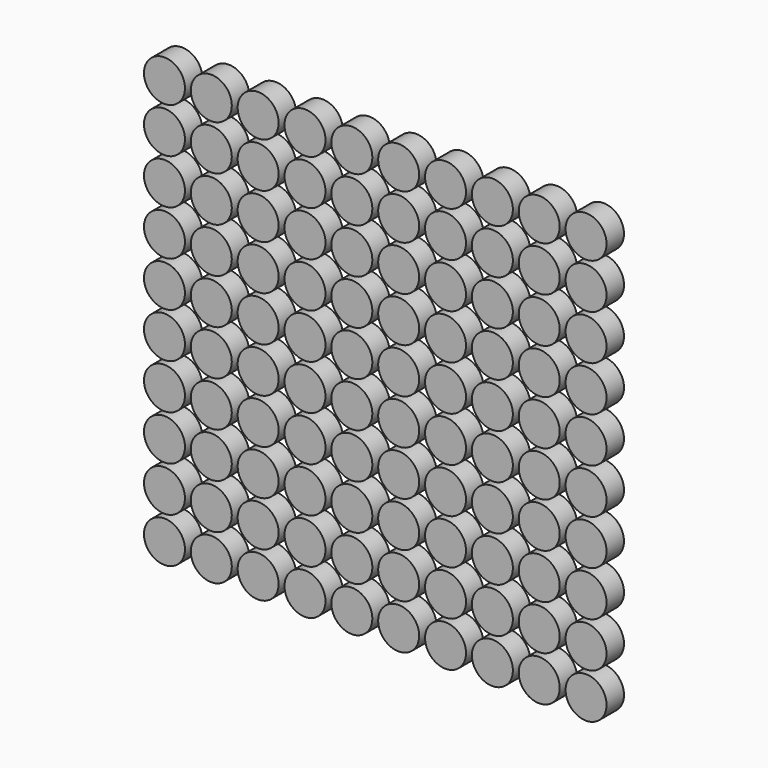
from build123d import *

# Parameters (mm, degrees)
F0_R     = 23.889337
F1_DEPTH = 25.4


with BuildPart() as f1:
    # F0 (on Front) → F1 (new body)
    with BuildSketch(Plane.XZ):
        with Locations((-116.749175, -34.957953)):
            Circle(F0_R)
        with Locations((-116.749175, 17.620047)):
            Circle(F0_R)
        with Locations((-116.749175, 70.198047)):
            Circle(F0_R)
        with Locations((-116.749175, 122.776047)):
            Circle(F0_R)
        with Locations((-116.749175, 175.354047)):
            Circle(F0_R)
        with Locations((-116.749175, 227.932047)):
            Circle(F0_R)
        with Locations((-116.749175, 280.510047)):
            Circle(F0_R)
        with Locations((-116.749175, 333.088047)):
            Circle(F0_R)
        with Locations((-116.749175, 385.666047)):
            Circle(F0_R)
        with Locations((-116.749175, 438.244047)):
            Circle(F0_R)
        with Locations((-62.139175, -34.957953)):
            Circle(F0_R)
        with Locations((-62.139175, 17.620047)):
            Circle(F0_R)
        with Locations((-62.139175, 70.198047)):
            Circle(F0_R)
        with Locations((-62.139175, 122.776047)):
            Circle(F0_R)
        with Locations((-62.139175, 175.354047)):
            Circle(F0_R)
        with Locations((-62.139175, 227.932047)):
            Circle(F0_R)
        with Locations((-62.139175, 280.510047)):
            Circle(F0_R)
        with Locations((-62.139175, 333.088047)):
            Circle(F0_R)
        with Locations((-62.139175, 385.666047)):
            Circle(F0_R)
        with Locations((-62.139175, 438.244047)):
            Circle(F0_R)
        with Locations((-7.529175, -34.957953)):
            Circle(F0_R)
        with Locations((-7.529175, 17.620047)):
            Circle(F0_R)
        with Locations((-7.529175, 70.198047)):
            Circle(F0_R)
        with Locations((-7.529175, 122.776047)):
            Circle(F0_R)
        with Locations((-7.529175, 175.354047)):
            Circle(F0_R)
        with Locations((-7.529175, 227.932047)):
            Circle(F0_R)
        with Locations((-7.529175, 280.510047)):
            Circle(F0_R)
        with Locations((-7.529175, 333.088047)):
            Circle(F0_R)
        with Locations((-7.529175, 385.666047)):
            Circle(F0_R)
        with Locations((-7.529175, 438.244047)):
            Circle(F0_R)
        with Locations((47.080825, -34.957953)):
            Circle(F0_R)
        with Locations((47.080825, 17.620047)):
            Circle(F0_R)
        with Locations((47.080825, 70.198047)):
            Circle(F0_R)
        with Locations((47.080825, 122.776047)):
            Circle(F0_R)
        with Locations((47.080825, 175.354047)):
            Circle(F0_R)
        with Locations((47.080825, 227.932047)):
            Circle(F0_R)
        with Locations((47.080825, 280.510047)):
            Circle(F0_R)
        with Locations((47.080825, 333.088047)):
            Circle(F0_R)
        with Locations((47.080825, 385.666047)):
            Circle(F0_R)
        with Locations((47.080825, 438.244047)):
            Circle(F0_R)
        with Locations((101.690825, -34.957953)):
            Circle(F0_R)
        with Locations((101.690825, 17.620047)):
            Circle(F0_R)
        with Locations((101.690825, 70.198047)):
            Circle(F0_R)
        with Locations((101.690825, 122.776047)):
            Circle(F0_R)
        with Locations((101.690825, 175.354047)):
            Circle(F0_R)
        with Locations((101.690825, 227.932047)):
            Circle(F0_R)
        with Locations((101.690825, 280.510047)):
            Circle(F0_R)
        with Locations((101.690825, 333.088047)):
            Circle(F0_R)
        with Locations((101.690825, 385.666047)):
            Circle(F0_R)
        with Locations((101.690825, 438.244047)):
            Circle(F0_R)
        with Locations((156.300825, -34.957953)):
            Circle(F0_R)
        with Locations((156.300825, 17.620047)):
            Circle(F0_R)
        with Locations((156.300825, 70.198047)):
            Circle(F0_R)
        with Locations((156.300825, 122.776047)):
            Circle(F0_R)
        with Locations((156.300825, 175.354047)):
            Circle(F0_R)
        with Locations((156.300825, 227.932047)):
            Circle(F0_R)
        with Locations((156.300825, 280.510047)):
            Circle(F0_R)
        with Locations((156.300825, 333.088047)):
            Circle(F0_R)
        with Locations((156.300825, 385.666047)):
            Circle(F0_R)
        with Locations((156.300825, 438.244047)):
            Circle(F0_R)
        with Locations((210.910825, -34.957953)):
            Circle(F0_R)
        with Locations((210.910825, 17.620047)):
            Circle(F0_R)
        with Locations((210.910825, 70.198047)):
            Circle(F0_R)
        with Locations((210.910825, 122.776047)):
            Circle(F0_R)
        with Locations((210.910825, 175.354047)):
            Circle(F0_R)
        with Locations((210.910825, 227.932047)):
            Circle(F0_R)
        with Locations((210.910825, 280.510047)):
            Circle(F0_R)
        with Locations((210.910825, 333.088047)):
            Circle(F0_R)
        with Locations((210.910825, 385.666047)):
            Circle(F0_R)
        with Locations((210.910825, 438.244047)):
            Circle(F0_R)
        with Locations((265.520825, -34.957953)):
            Circle(F0_R)
        with Locations((265.520825, 17.620047)):
            Circle(F0_R)
        with Locations((265.520825, 70.198047)):
            Circle(F0_R)
        with Locations((265.520825, 122.776047)):
            Circle(F0_R)
        with Locations((265.520825, 175.354047)):
            Circle(F0_R)
        with Locations((265.520825, 227.932047)):
            Circle(F0_R)
        with Locations((265.520825, 280.510047)):
            Circle(F0_R)
        with Locations((265.520825, 333.088047)):
            Circle(F0_R)
        with Locations((265.520825, 385.666047)):
            Circle(F0_R)
        with Locations((265.520825, 438.244047)):
            Circle(F0_R)
        with Locations((320.130825, -34.957953)):
            Circle(F0_R)
        with Locations((320.130825, 17.620047)):
            Circle(F0_R)
        with Locations((320.130825, 70.198047)):
            Circle(F0_R)
        with Locations((320.130825, 122.776047)):
            Circle(F0_R)
        with Locations((320.130825, 175.354047)):
            Circle(F0_R)
        with Locations((320.130825, 227.932047)):
            Circle(F0_R)
        with Locations((320.130825, 280.510047)):
            Circle(F0_R)
        with Locations((320.130825, 333.088047)):
            Circle(F0_R)
        with Locations((320.130825, 385.666047)):
            Circle(F0_R)
        with Locations((320.130825, 438.244047)):
            Circle(F0_R)
        with Locations((374.740825, -34.957953)):
            Circle(F0_R)
        with Locations((374.740825, 17.620047)):
            Circle(F0_R)
        with Locations((374.740825, 70.198047)):
            Circle(F0_R)
        with Locations((374.740825, 122.776047)):
            Circle(F0_R)
        with Locations((374.740825, 175.354047)):
            Circle(F0_R)
        with Locations((374.740825, 227.932047)):
            Circle(F0_R)
        with Locations((374.740825, 280.510047)):
            Circle(F0_R)
        with Locations((374.740825, 333.088047)):
            Circle(F0_R)
        with Locations((374.740825, 385.666047)):
            Circle(F0_R)
        with Locations((374.740825, 438.244047)):
            Circle(F0_R)
    extrude(amount=F1_DEPTH)


solid = f1.part
